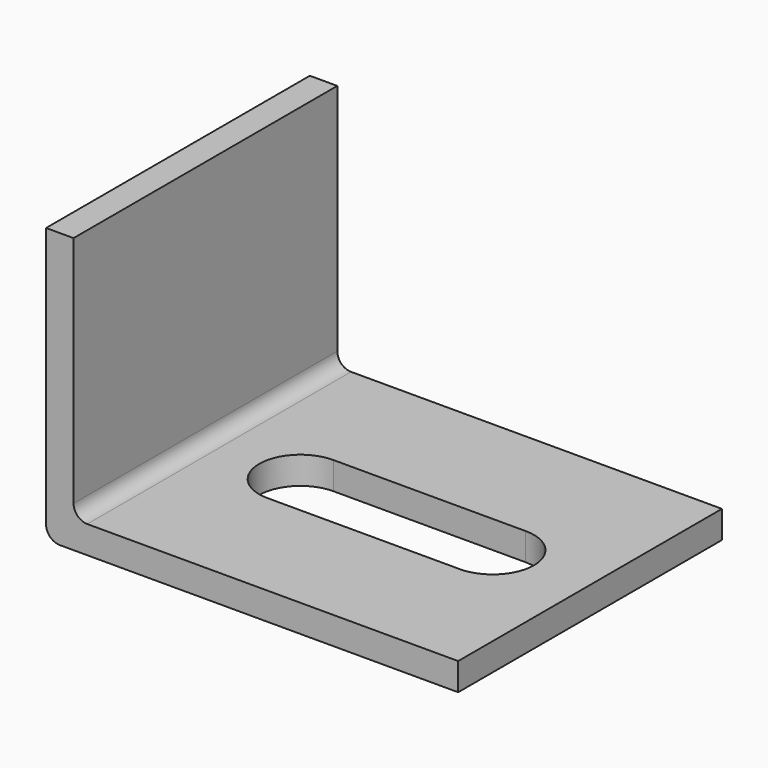
from build123d import *

# Parameters (mm, degrees)
F1_DEPTH = 60
F2_W     = 35
F2_H     = 15
F3_DEPTH = 50.001


with BuildPart() as f1:
    # F0 (on Front) → F1 (new body)
    with BuildSketch(Plane.XZ):
        with BuildLine():
            Line((5, 50), (0, 50))
            Line((0, 50), (0, 2.5))
            ThreePointArc((0, 2.5), (0.732233, 0.732233), (2.5, 0))
            Line((2.5, 0), (75, 0))
            Line((75, 0), (75, 5))
            Line((75, 5), (7.5, 5))
            ThreePointArc((7.5, 5), (5.732233, 5.732233), (5, 7.5))
            Line((5, 7.5), (5, 50))
        make_face()
    extrude(amount=-F1_DEPTH)

    # F2 (on face) → F3 (cut, through all)
    with BuildSketch(Plane(origin=(0, 0, 0), x_dir=(1, 0, 0), z_dir=(0, 0, -1))):
        with Locations((40, -29.735081)):
            Rectangle(F2_W, F2_H)
        with BuildLine():
            Line((22.5, -37.235081), (22.5, -22.235081))
            ThreePointArc((22.5, -22.235081), (15, -29.735081), (22.5, -37.235081))
        make_face()
        with BuildLine():
            ThreePointArc((57.5, -37.235081), (65, -29.735081), (57.5, -22.235081))
            Line((57.5, -22.235081), (57.5, -37.235081))
        make_face()
    extrude(amount=-F3_DEPTH, mode=Mode.SUBTRACT)


solid = f1.part
